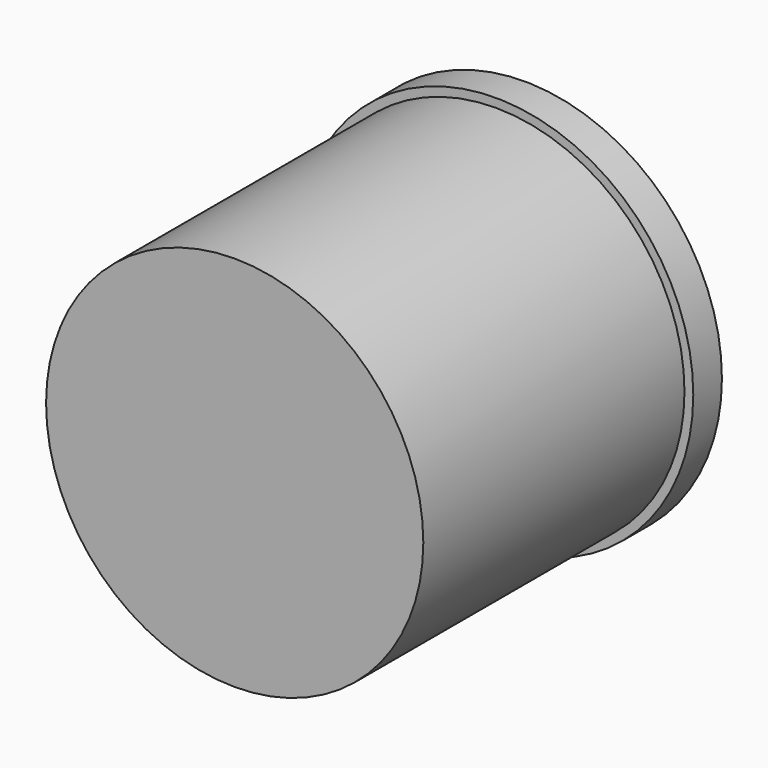
from build123d import *

# Parameters (mm, degrees)
F0_R     = 33.251369
F1_DEPTH = 57.553999
F2_R     = 34.802658
F3_DEPTH = 6.311184


with BuildPart() as f1:
    # F0 (on Front) → F1 (new body)
    with BuildSketch(Plane.XZ):
        Circle(F0_R)
    extrude(amount=F1_DEPTH)

    # F2 (on Front) → F3 (join)
    with BuildSketch(Plane.XZ):
        Circle(F2_R)
    extrude(amount=-F3_DEPTH)


solid = f1.part
